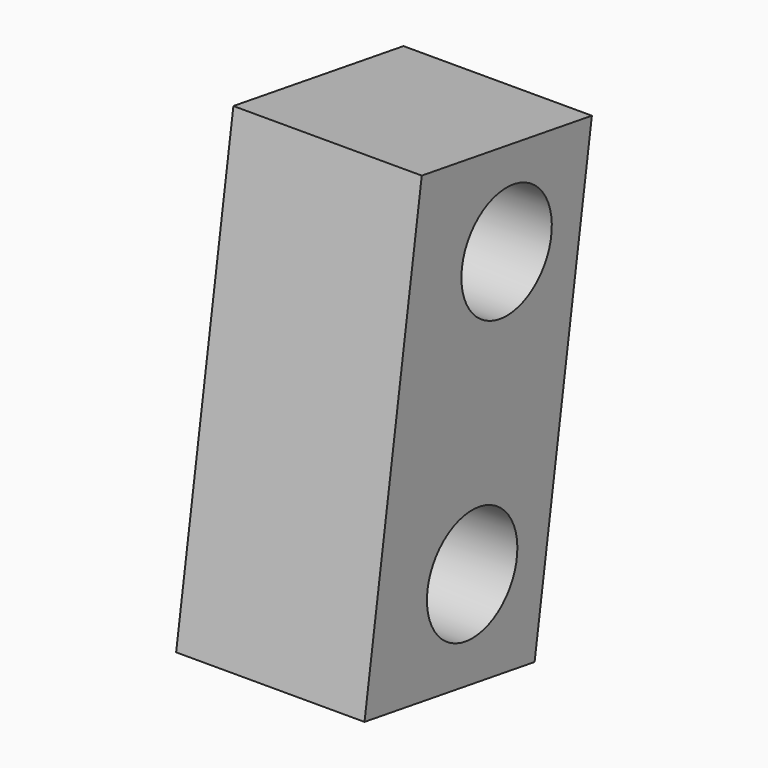
from build123d import *

# Parameters (mm, degrees)
CYLINDER002_R       = 2.1
CYLINDER002_DEPTH   = 10
CYLINDER001_R       = 2.1
CYLINDER001_DEPTH   = 10
BOX_W               = 7
BOX_H               = 8
BOX_DEPTH           = 17
BOX_PLACEMENT_ANGLE = 9


with BuildPart() as cylinder002:
    # Cylinder002 → Cylinder002 (new body)
    with BuildSketch(Plane(origin=(23, 39.6, 42.2), x_dir=(0, 0, -1), z_dir=(1, 0, 0))):
        Circle(CYLINDER002_R)
    extrude(amount=CYLINDER002_DEPTH)


with BuildPart() as fusion:
    # Cylinder001 → Cylinder001 (new body)
    with BuildSketch(Plane(origin=(23, 38, 32.3), x_dir=(0, 0, -1), z_dir=(1, 0, 0))):
        Circle(CYLINDER001_R)
    extrude(amount=CYLINDER001_DEPTH)

    # Fusion: union Cylinder002
    add(cylinder002.part)


with BuildPart() as fusion_1:
    # Fusion placement: moved
    add(fusion.part.moved(Location((-1, 0, 0))))


with BuildPart() as cut001:
    # Box → Box (new body)
    with BuildSketch(Plane.XY):
        with Locations((3.5, 4)):
            Rectangle(BOX_W, BOX_H)
    extrude(amount=BOX_DEPTH)


with BuildPart() as cut001_1:
    # Box placement: moved
    add(cut001.part.moved(Location((20.2, 33, 29.5))).rotate(Axis((20.2, 33, 29.5), (-1, 0, 0)), BOX_PLACEMENT_ANGLE))

    # Cut001: cut Fusion
    add(fusion_1.part, mode=Mode.SUBTRACT)


solid = cut001_1.part
